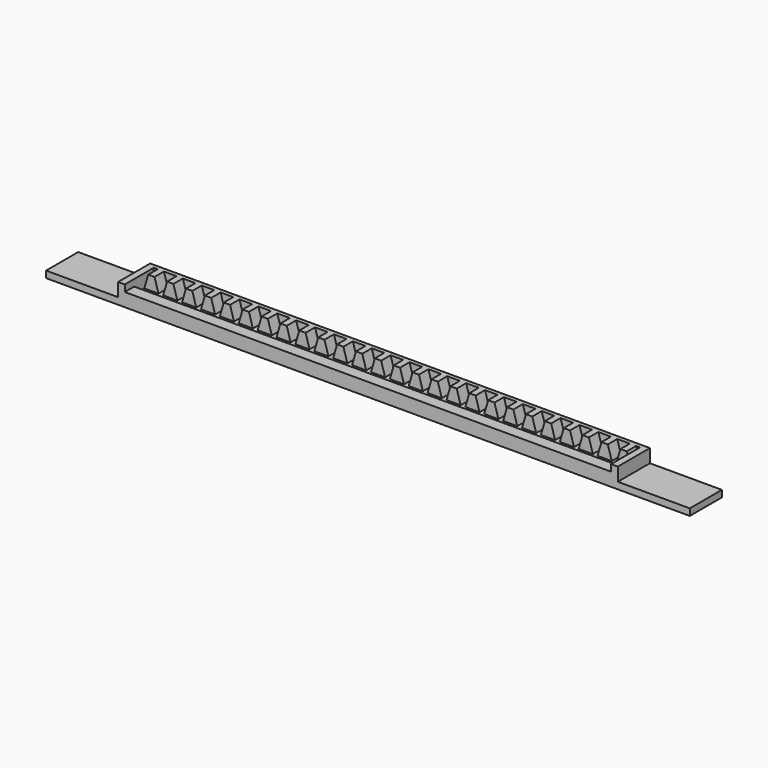
from build123d import *

# Parameters (mm, degrees)
F1_DEPTH  = 3.81
F5_DEPTH  = 156.972
F7_DEPTH  = 1.27
F9_W      = 12.954
F9_H      = 2.159
F9_H_2    = 4.318
F10_DEPTH = 2.159
F11_DEPTH = 25.4
F12_W     = 12.954
F12_H     = 4.318
F12_H_2   = 2.159
F13_DEPTH = 2.159
F14_DEPTH = 25.4


with BuildPart() as f1:
    # F0 (on Front) → F1 (new body)
    with BuildSketch(Plane.XZ):
        Polygon((-37.1748663006, 21.2125933835), (-38.4448663006, 16.8945933835), (-33.8728663006, 16.8945933835), (-35.1428663006, 21.2125933835), align=None)
        Polygon((-33.8728663006, 16.8945933835), (-38.4448663006, 16.8945933835), (-38.4448663006, 14.7355933835), (118.5271336994, 14.7355933835), (118.5271336994, 16.8945933835), (113.9551336994, 16.8945933835), (112.4311336994, 16.8945933835), (107.8591336994, 16.8945933835), (106.3351336994, 16.8945933835), (101.7631336994, 16.8945933835), (100.2391336994, 16.8945933835), (95.6671336994, 16.8945933835), (94.1431336994, 16.8945933835), (89.5711336994, 16.8945933835), (88.0471336994, 16.8945933835), (83.4751336994, 16.8945933835), (81.9511336994, 16.8945933835), (77.3791336994, 16.8945933835), (75.8551336994, 16.8945933835), (71.2831336994, 16.8945933835), (69.7591336994, 16.8945933835), (65.1871336994, 16.8945933835), (63.6631336994, 16.8945933835), (59.0911336994, 16.8945933835), (57.5671336994, 16.8945933835), (52.9951336994, 16.8945933835), (51.4711336994, 16.8945933835), (46.8991336994, 16.8945933835), (45.3751336994, 16.8945933835), (40.8031336994, 16.8945933835), (39.2791336994, 16.8945933835), (34.7071336994, 16.8945933835), (33.1831336994, 16.8945933835), (28.6111336994, 16.8945933835), (27.0871336994, 16.8945933835), (22.5151336994, 16.8945933835), (20.9911336994, 16.8945933835), (16.4191336994, 16.8945933835), (14.8951336994, 16.8945933835), (10.3231336994, 16.8945933835), (8.7991336994, 16.8945933835), (4.2271336994, 16.8945933835), (2.7031336994, 16.8945933835), (-1.8688663006, 16.8945933835), (-3.3928663006, 16.8945933835), (-7.9648663006, 16.8945933835), (-9.4888663006, 16.8945933835), (-14.0608663006, 16.8945933835), (-15.5848663006, 16.8945933835), (-20.1568663006, 16.8945933835), (-21.6808663006, 16.8945933835), (-26.2528663006, 16.8945933835), (-27.7768663006, 16.8945933835), (-32.3488663006, 16.8945933835), align=None)
        Polygon((-31.0788663006, 21.2125933835), (-32.3488663006, 16.8945933835), (-27.7768663006, 16.8945933835), (-29.0468663006, 21.2125933835), align=None)
        Polygon((113.9551336994, 16.8945933835), (118.5271336994, 16.8945933835), (117.2571336994, 21.2125933835), (115.2251336994, 21.2125933835), align=None)
        Polygon((-24.9828663006, 21.2125933835), (-26.2528663006, 16.8945933835), (-21.6808663006, 16.8945933835), (-22.9508663006, 21.2125933835), align=None)
        Polygon((107.8591336994, 16.8945933835), (112.4311336994, 16.8945933835), (111.1611336994, 21.2125933835), (109.1291336994, 21.2125933835), align=None)
        Polygon((-18.8868663006, 21.2125933835), (-20.1568663006, 16.8945933835), (-15.5848663006, 16.8945933835), (-16.8548663006, 21.2125933835), align=None)
        Polygon((101.7631336994, 16.8945933835), (106.3351336994, 16.8945933835), (105.0651336994, 21.2125933835), (103.0331336994, 21.2125933835), align=None)
        Polygon((-12.7908663006, 21.2125933835), (-14.0608663006, 16.8945933835), (-9.4888663006, 16.8945933835), (-10.7588663006, 21.2125933835), align=None)
        Polygon((95.6671336994, 16.8945933835), (100.2391336994, 16.8945933835), (98.9691336994, 21.2125933835), (96.9371336994, 21.2125933835), align=None)
        Polygon((-6.6948663006, 21.2125933835), (-7.9648663006, 16.8945933835), (-3.3928663006, 16.8945933835), (-4.6628663006, 21.2125933835), align=None)
        Polygon((89.5711336994, 16.8945933835), (94.1431336994, 16.8945933835), (92.8731336994, 21.2125933835), (90.8411336994, 21.2125933835), align=None)
        Polygon((-0.5988663006, 21.2125933835), (-1.8688663006, 16.8945933835), (2.7031336994, 16.8945933835), (1.4331336994, 21.2125933835), align=None)
        Polygon((83.4751336994, 16.8945933835), (88.0471336994, 16.8945933835), (86.7771336994, 21.2125933835), (84.7451336994, 21.2125933835), align=None)
        Polygon((5.4971336994, 21.2125933835), (4.2271336994, 16.8945933835), (8.7991336994, 16.8945933835), (7.5291336994, 21.2125933835), align=None)
        Polygon((77.3791336994, 16.8945933835), (81.9511336994, 16.8945933835), (80.6811336994, 21.2125933835), (78.6491336994, 21.2125933835), align=None)
        Polygon((11.5931336994, 21.2125933835), (10.3231336994, 16.8945933835), (14.8951336994, 16.8945933835), (13.6251336994, 21.2125933835), align=None)
        Polygon((71.2831336994, 16.8945933835), (75.8551336994, 16.8945933835), (74.5851336994, 21.2125933835), (72.5531336994, 21.2125933835), align=None)
        Polygon((17.6891336994, 21.2125933835), (16.4191336994, 16.8945933835), (20.9911336994, 16.8945933835), (19.7211336994, 21.2125933835), align=None)
        Polygon((65.1871336994, 16.8945933835), (69.7591336994, 16.8945933835), (68.4891336994, 21.2125933835), (66.4571336994, 21.2125933835), align=None)
        Polygon((23.7851336994, 21.2125933835), (22.5151336994, 16.8945933835), (27.0871336994, 16.8945933835), (25.8171336994, 21.2125933835), align=None)
        Polygon((59.0911336994, 16.8945933835), (63.6631336994, 16.8945933835), (62.3931336994, 21.2125933835), (60.3611336994, 21.2125933835), align=None)
        Polygon((29.8811336994, 21.2125933835), (28.6111336994, 16.8945933835), (33.1831336994, 16.8945933835), (31.9131336994, 21.2125933835), align=None)
        Polygon((52.9951336994, 16.8945933835), (57.5671336994, 16.8945933835), (56.2971336994, 21.2125933835), (54.2651336994, 21.2125933835), align=None)
        Polygon((35.9771336994, 21.2125933835), (34.7071336994, 16.8945933835), (39.2791336994, 16.8945933835), (38.0091336994, 21.2125933835), align=None)
        Polygon((46.8991336994, 16.8945933835), (51.4711336994, 16.8945933835), (50.2011336994, 21.2125933835), (48.1691336994, 21.2125933835), align=None)
        Polygon((42.0731336994, 21.2125933835), (40.8031336994, 16.8945933835), (45.3751336994, 16.8945933835), (44.1051336994, 21.2125933835), align=None)
    extrude(amount=F1_DEPTH)

    # F4 (on plane+point) → F5 (join, through all)
    with BuildSketch(Plane.YZ.offset(118.5271336994)):
        Polygon((-11.684, 14.7355933835), (-3.81, 14.7355933835), (-3.81, 16.8945933835), (-7.874, 16.8945933835), (-7.874, 19.0535933835), (-11.684, 19.0535933835), (-11.684, 16.8945933835), align=None)
    extrude(amount=-F5_DEPTH)

    # F6 (on face) → F7 (join)
    with BuildSketch(Plane(origin=(0, 0, 0), x_dir=(-1, 0, 0), z_dir=(0, 1, 0))):
        Polygon((33.8728663006, 16.8945933835), (35.1428663006, 21.2125933835), (31.0788663006, 21.2125933835), (32.3488663006, 16.8945933835), align=None)
        Polygon((27.7768663006, 16.8945933835), (29.0468663006, 21.2125933835), (24.9828663006, 21.2125933835), (26.2528663006, 16.8945933835), align=None)
        Polygon((21.6808663006, 16.8945933835), (22.9508663006, 21.2125933835), (18.8868663006, 21.2125933835), (20.1568663006, 16.8945933835), align=None)
        Polygon((15.5848663006, 16.8945933835), (16.8548663006, 21.2125933835), (12.7908663006, 21.2125933835), (14.0608663006, 16.8945933835), align=None)
        Polygon((9.4888663006, 16.8945933835), (10.7588663006, 21.2125933835), (6.6948663006, 21.2125933835), (7.9648663006, 16.8945933835), align=None)
        Polygon((3.3928663006, 16.8945933835), (4.6628663006, 21.2125933835), (0.5988663006, 21.2125933835), (1.8688663006, 16.8945933835), align=None)
        Polygon((-2.7031336994, 16.8945933835), (-1.4331336994, 21.2125933835), (-5.4971336994, 21.2125933835), (-4.2271336994, 16.8945933835), align=None)
        Polygon((-8.7991336994, 16.8945933835), (-7.5291336994, 21.2125933835), (-11.5931336994, 21.2125933835), (-10.3231336994, 16.8945933835), align=None)
        Polygon((-14.8951336994, 16.8945933835), (-13.6251336994, 21.2125933835), (-17.6891336994, 21.2125933835), (-16.4191336994, 16.8945933835), align=None)
        Polygon((-20.9911336994, 16.8945933835), (-19.7211336994, 21.2125933835), (-23.7851336994, 21.2125933835), (-22.5151336994, 16.8945933835), align=None)
        Polygon((-27.0871336994, 16.8945933835), (-25.8171336994, 21.2125933835), (-29.8811336994, 21.2125933835), (-28.6111336994, 16.8945933835), align=None)
        Polygon((-118.5271336994, 14.7355933835), (38.4448663006, 14.7355933835), (38.4448663006, 16.8945933835), (37.1748663006, 21.2125933835), (35.1428663006, 21.2125933835), (33.8728663006, 16.8945933835), (32.3488663006, 16.8945933835), (31.0788663006, 21.2125933835), (29.0468663006, 21.2125933835), (27.7768663006, 16.8945933835), (26.2528663006, 16.8945933835), (24.9828663006, 21.2125933835), (22.9508663006, 21.2125933835), (21.6808663006, 16.8945933835), (20.1568663006, 16.8945933835), (18.8868663006, 21.2125933835), (16.8548663006, 21.2125933835), (15.5848663006, 16.8945933835), (14.0608663006, 16.8945933835), (12.7908663006, 21.2125933835), (10.7588663006, 21.2125933835), (9.4888663006, 16.8945933835), (7.9648663006, 16.8945933835), (6.6948663006, 21.2125933835), (4.6628663006, 21.2125933835), (3.3928663006, 16.8945933835), (1.8688663006, 16.8945933835), (0.5988663006, 21.2125933835), (-1.4331336994, 21.2125933835), (-2.7031336994, 16.8945933835), (-4.2271336994, 16.8945933835), (-5.4971336994, 21.2125933835), (-7.5291336994, 21.2125933835), (-8.7991336994, 16.8945933835), (-10.3231336994, 16.8945933835), (-11.5931336994, 21.2125933835), (-13.6251336994, 21.2125933835), (-14.8951336994, 16.8945933835), (-16.4191336994, 16.8945933835), (-17.6891336994, 21.2125933835), (-19.7211336994, 21.2125933835), (-20.9911336994, 16.8945933835), (-22.5151336994, 16.8945933835), (-23.7851336994, 21.2125933835), (-25.8171336994, 21.2125933835), (-27.0871336994, 16.8945933835), (-28.6111336994, 16.8945933835), (-29.8811336994, 21.2125933835), (-31.9131336994, 21.2125933835), (-33.1831336994, 16.8945933835), (-34.7071336994, 16.8945933835), (-35.9771336994, 21.2125933835), (-38.0091336994, 21.2125933835), (-39.2791336994, 16.8945933835), (-40.8031336994, 16.8945933835), (-42.0731336994, 21.2125933835), (-44.1051336994, 21.2125933835), (-45.3751336994, 16.8945933835), (-46.8991336994, 16.8945933835), (-48.1691336994, 21.2125933835), (-50.2011336994, 21.2125933835), (-51.4711336994, 16.8945933835), (-52.9951336994, 16.8945933835), (-54.2651336994, 21.2125933835), (-56.2971336994, 21.2125933835), (-57.5671336994, 16.8945933835), (-59.0911336994, 16.8945933835), (-60.3611336994, 21.2125933835), (-62.3931336994, 21.2125933835), (-63.6631336994, 16.8945933835), (-65.1871336994, 16.8945933835), (-66.4571336994, 21.2125933835), (-68.4891336994, 21.2125933835), (-69.7591336994, 16.8945933835), (-71.2831336994, 16.8945933835), (-72.5531336994, 21.2125933835), (-74.5851336994, 21.2125933835), (-75.8551336994, 16.8945933835), (-77.3791336994, 16.8945933835), (-78.6491336994, 21.2125933835), (-80.6811336994, 21.2125933835), (-81.9511336994, 16.8945933835), (-83.4751336994, 16.8945933835), (-84.7451336994, 21.2125933835), (-86.7771336994, 21.2125933835), (-88.0471336994, 16.8945933835), (-89.5711336994, 16.8945933835), (-90.8411336994, 21.2125933835), (-92.8731336994, 21.2125933835), (-94.1431336994, 16.8945933835), (-95.6671336994, 16.8945933835), (-96.9371336994, 21.2125933835), (-98.9691336994, 21.2125933835), (-100.2391336994, 16.8945933835), (-101.7631336994, 16.8945933835), (-103.0331336994, 21.2125933835), (-105.0651336994, 21.2125933835), (-106.3351336994, 16.8945933835), (-107.8591336994, 16.8945933835), (-109.1291336994, 21.2125933835), (-111.1611336994, 21.2125933835), (-112.4311336994, 16.8945933835), (-113.9551336994, 16.8945933835), (-115.2251336994, 21.2125933835), (-117.2571336994, 21.2125933835), (-118.5271336994, 16.8945933835), align=None)
        Polygon((-111.1611336994, 21.2125933835), (-115.2251336994, 21.2125933835), (-113.9551336994, 16.8945933835), (-112.4311336994, 16.8945933835), align=None)
        Polygon((-105.0651336994, 21.2125933835), (-109.1291336994, 21.2125933835), (-107.8591336994, 16.8945933835), (-106.3351336994, 16.8945933835), align=None)
        Polygon((-98.9691336994, 21.2125933835), (-103.0331336994, 21.2125933835), (-101.7631336994, 16.8945933835), (-100.2391336994, 16.8945933835), align=None)
        Polygon((-92.8731336994, 21.2125933835), (-96.9371336994, 21.2125933835), (-95.6671336994, 16.8945933835), (-94.1431336994, 16.8945933835), align=None)
        Polygon((-86.7771336994, 21.2125933835), (-90.8411336994, 21.2125933835), (-89.5711336994, 16.8945933835), (-88.0471336994, 16.8945933835), align=None)
        Polygon((-80.6811336994, 21.2125933835), (-84.7451336994, 21.2125933835), (-83.4751336994, 16.8945933835), (-81.9511336994, 16.8945933835), align=None)
        Polygon((-74.5851336994, 21.2125933835), (-78.6491336994, 21.2125933835), (-77.3791336994, 16.8945933835), (-75.8551336994, 16.8945933835), align=None)
        Polygon((-68.4891336994, 21.2125933835), (-72.5531336994, 21.2125933835), (-71.2831336994, 16.8945933835), (-69.7591336994, 16.8945933835), align=None)
        Polygon((-62.3931336994, 21.2125933835), (-66.4571336994, 21.2125933835), (-65.1871336994, 16.8945933835), (-63.6631336994, 16.8945933835), align=None)
        Polygon((-56.2971336994, 21.2125933835), (-60.3611336994, 21.2125933835), (-59.0911336994, 16.8945933835), (-57.5671336994, 16.8945933835), align=None)
        Polygon((-50.2011336994, 21.2125933835), (-54.2651336994, 21.2125933835), (-52.9951336994, 16.8945933835), (-51.4711336994, 16.8945933835), align=None)
        Polygon((-44.1051336994, 21.2125933835), (-48.1691336994, 21.2125933835), (-46.8991336994, 16.8945933835), (-45.3751336994, 16.8945933835), align=None)
        Polygon((-39.2791336994, 16.8945933835), (-38.0091336994, 21.2125933835), (-42.0731336994, 21.2125933835), (-40.8031336994, 16.8945933835), align=None)
        Polygon((-33.1831336994, 16.8945933835), (-31.9131336994, 21.2125933835), (-35.9771336994, 21.2125933835), (-34.7071336994, 16.8945933835), align=None)
        Polygon((-118.5271336994, 21.2125933835), (-118.5271336994, 16.8945933835), (-117.2571336994, 21.2125933835), align=None)
        Polygon((37.1748663006, 21.2125933835), (38.4448663006, 16.8945933835), (38.4448663006, 21.2125933835), align=None)
    extrude(amount=F7_DEPTH)

    # F9 (on face) → F10 (join)
    with BuildSketch(Plane.YZ.offset(118.5271336994)):
        with Locations((-5.207, 15.8150933835)):
            Rectangle(F9_W, F9_H)
        with Locations((-5.207, 19.0535933835)):
            Rectangle(F9_W, F9_H_2)
    extrude(amount=F10_DEPTH)

    # F9 (on face) → F11 (join)
    with BuildSketch(Plane.YZ.offset(118.5271336994)):
        Polygon((-11.684, 16.8945933835), (-11.684, 14.7355933835), (1.27, 14.7355933835), (1.27, 16.8945933835), (0, 16.8945933835), (-3.81, 16.8945933835), (-7.874, 16.8945933835), align=None)
    extrude(amount=F11_DEPTH)

    # F12 (on face) → F13 (join)
    with BuildSketch(Plane(origin=(-38.4448663006, 0, 0), x_dir=(0, -1, 0), z_dir=(-1, 0, 0))):
        with Locations((5.207, 19.0535933835)):
            Rectangle(F12_W, F12_H)
        with Locations((5.207, 15.8150933835)):
            Rectangle(F12_W, F12_H_2)
    extrude(amount=F13_DEPTH)

    # F12 (on face) → F14 (join)
    with BuildSketch(Plane(origin=(-38.4448663006, 0, 0), x_dir=(0, -1, 0), z_dir=(-1, 0, 0))):
        Polygon((3.81, 16.8945933835), (0, 16.8945933835), (-1.27, 16.8945933835), (-1.27, 14.7355933835), (11.684, 14.7355933835), (11.684, 16.8945933835), (7.874, 16.8945933835), align=None)
    extrude(amount=F14_DEPTH)


solid = f1.part
